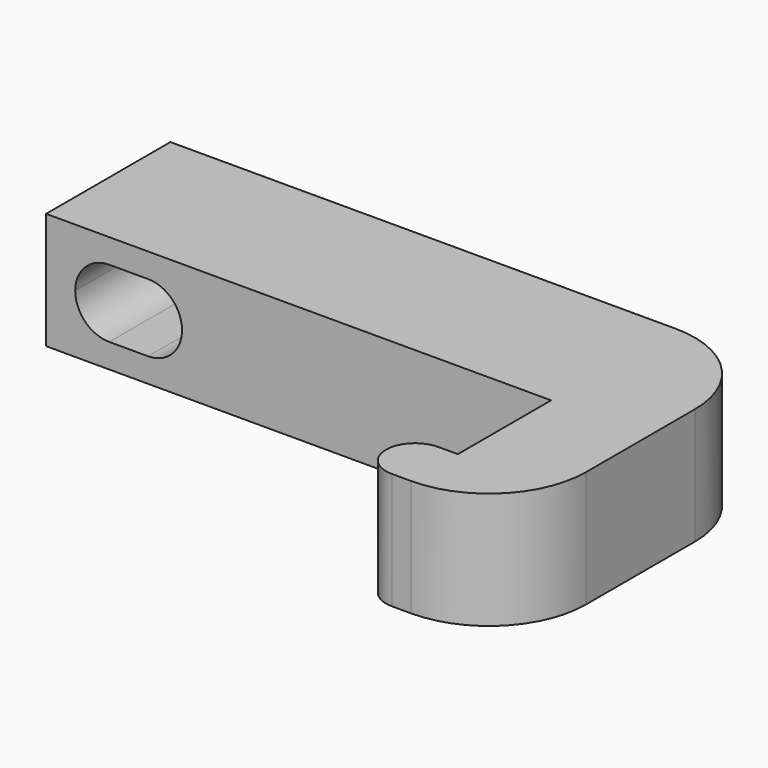
from build123d import *

# Parameters (mm, degrees)
F1_DEPTH = 6
F3_DEPTH = 25
F4_R     = 5


with BuildPart() as f1:
    # F0 (on Top) → F1 (new body)
    with BuildSketch(Plane.XY):
        with BuildLine():
            Line((-1, 0), (0, 0))
            Line((0, 0), (5, 0))
            Line((5, 0), (5, 17))
            Line((5, 17), (-26, 17))
            Line((-26, 17), (-26, 9))
            Line((-26, 9), (0, 9))
            Line((0, 9), (0, 3))
            Line((0, 3), (-1, 3))
            ThreePointArc((-1, 3), (-2.5, 1.5), (-1, 0))
        make_face()
    extrude(amount=F1_DEPTH)

    # F2 (on face) → F3 (cut)
    with BuildSketch(Plane(origin=(0, 17, 0), x_dir=(-1, 0, 0), z_dir=(0, 1, 0))):
        with BuildLine():
            ThreePointArc((22.75, 1.25), (23.9874368671, 1.7625631329), (24.5, 3))
            ThreePointArc((24.5, 3), (23.9874368671, 4.2374368671), (22.75, 4.75))
            Line((22.75, 4.75), (22.75, 1.25))
        make_face()
        with BuildLine():
            Line((22.75, 1.25), (22.75, 4.75))
            ThreePointArc((22.75, 4.75), (22.2259514134, 4.6696925103), (21.75, 4.4361406616))
            ThreePointArc((21.75, 4.4361406616), (22.3012092057, 3.8100925873), (22.5, 3))
            ThreePointArc((22.5, 3), (22.3012092057, 2.1899074127), (21.75, 1.5638593384))
            ThreePointArc((21.75, 1.5638593384), (22.2259514134, 1.3303074897), (22.75, 1.25))
        make_face()
        with BuildLine():
            ThreePointArc((21.75, 4.4361406616), (22.2259514134, 4.6696925103), (22.75, 4.75))
            Line((22.75, 4.75), (20.75, 4.75))
            ThreePointArc((20.75, 4.75), (21.2740485866, 4.6696925103), (21.75, 4.4361406616))
        make_face()
        with BuildLine():
            Line((20.75, 1.25), (22.75, 1.25))
            ThreePointArc((22.75, 1.25), (22.2259514134, 1.3303074897), (21.75, 1.5638593384))
            ThreePointArc((21.75, 1.5638593384), (21.2740485866, 1.3303074897), (20.75, 1.25))
        make_face()
        with BuildLine():
            ThreePointArc((21.75, 1.5638593384), (21, 3), (21.75, 4.4361406616))
            ThreePointArc((21.75, 4.4361406616), (21.2740485866, 4.6696925103), (20.75, 4.75))
            ThreePointArc((20.75, 4.75), (19, 3), (20.75, 1.25))
            ThreePointArc((20.75, 1.25), (21.2740485866, 1.3303074897), (21.75, 1.5638593384))
        make_face()
        with BuildLine():
            ThreePointArc((22.5, 3), (22.3012092057, 3.8100925873), (21.75, 4.4361406616))
            ThreePointArc((21.75, 4.4361406616), (21, 3), (21.75, 1.5638593384))
            ThreePointArc((21.75, 1.5638593384), (22.3012092057, 2.1899074127), (22.5, 3))
        make_face()
        with BuildLine():
            Line((22.75, 1.25), (22.75, 4.75))
            ThreePointArc((22.75, 4.75), (22.2259514134, 4.6696925103), (21.75, 4.4361406616))
            ThreePointArc((21.75, 4.4361406616), (22.3012092057, 3.8100925873), (22.5, 3))
            ThreePointArc((22.5, 3), (22.3012092057, 2.1899074127), (21.75, 1.5638593384))
            ThreePointArc((21.75, 1.5638593384), (22.2259514134, 1.3303074897), (22.75, 1.25))
        make_face()
    extrude(amount=-F3_DEPTH, mode=Mode.SUBTRACT)

    # F4
    f4_edges = [f1.edges().sort_by_distance(p)[0] for p in [
        (5, 17, 3),
        (5, 0, 3),
    ]]
    fillet(f4_edges, radius=F4_R)


solid = f1.part
